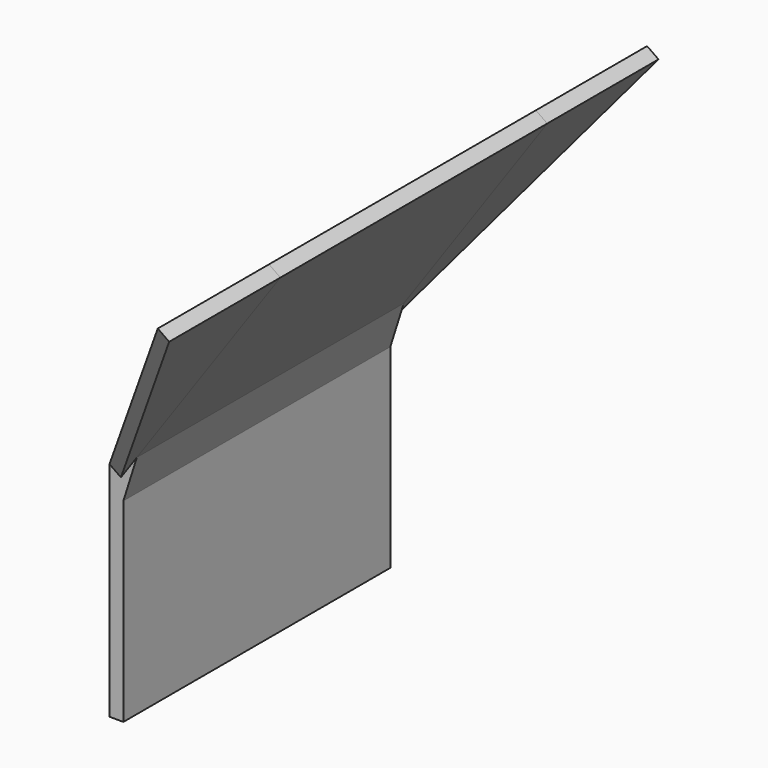
from build123d import *

# Parameters (mm, degrees)
F1_DEPTH = 120
F3_DEPTH = 5
F4_DEPTH = 5


with BuildPart() as f1:
    # F0 (on Front) → F1 (new body)
    with BuildSketch(Plane.XZ):
        Polygon((0, 80), (0, 0), (5, 0), (5, 70), (9.831525, 85.323638), (61.453404, 159.047322), (57.357644, 161.915204), align=None)
    extrude(amount=F1_DEPTH)

    # F2 (on face) → F3 (join)
    with BuildSketch(Plane(origin=(-37.587705, 0, 26.319194), x_dir=(0, -1, 0), z_dir=(-0.819152, 0, 0.573576))):
        Polygon((0, 65.532164), (0, 165.532164), (-50, 165.532164), align=None)
    extrude(amount=-F3_DEPTH)

    # F2 (on face) → F4 (join)
    with BuildSketch(Plane(origin=(-37.587705, 0, 26.319194), x_dir=(0, -1, 0), z_dir=(-0.819152, 0, 0.573576))):
        Polygon((170, 165.532164), (120, 165.532164), (120, 65.532164), align=None)
    extrude(amount=-F4_DEPTH)


solid = f1.part
